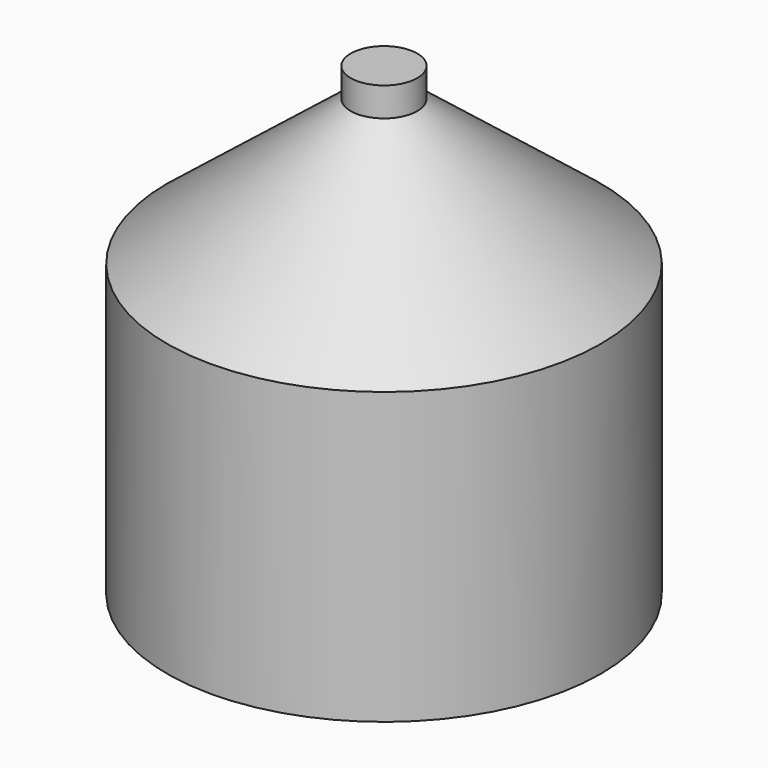
from build123d import *

# Parameters (mm, degrees)
F0_R      = 37.3463953666
F1_DEPTH  = 50
F1_FACE_R = 37.3463953666
F3_R      = 5.7348766561
F5_DEPTH  = 5


with BuildPart() as f1:
    # F0 (on Top) → F1 (new body)
    with BuildSketch(Plane.XY):
        Circle(F0_R)
    extrude(amount=F1_DEPTH)

    # F1_face (on face) → F4 section 0
    with BuildSketch(Plane.XY.offset(50)):
        Circle(F1_FACE_R)
    # F3 (on offset) → F4 section 1
    with BuildSketch(Plane.XY.offset(75)):
        Circle(F3_R)
    loft()

    # F5 (add): a face of the model
    f5_faces = [f1.faces().sort_by_distance(p)[0] for p in [
        (0, 0, 75),
    ]]
    extrude(f5_faces, amount=F5_DEPTH)


solid = f1.part
